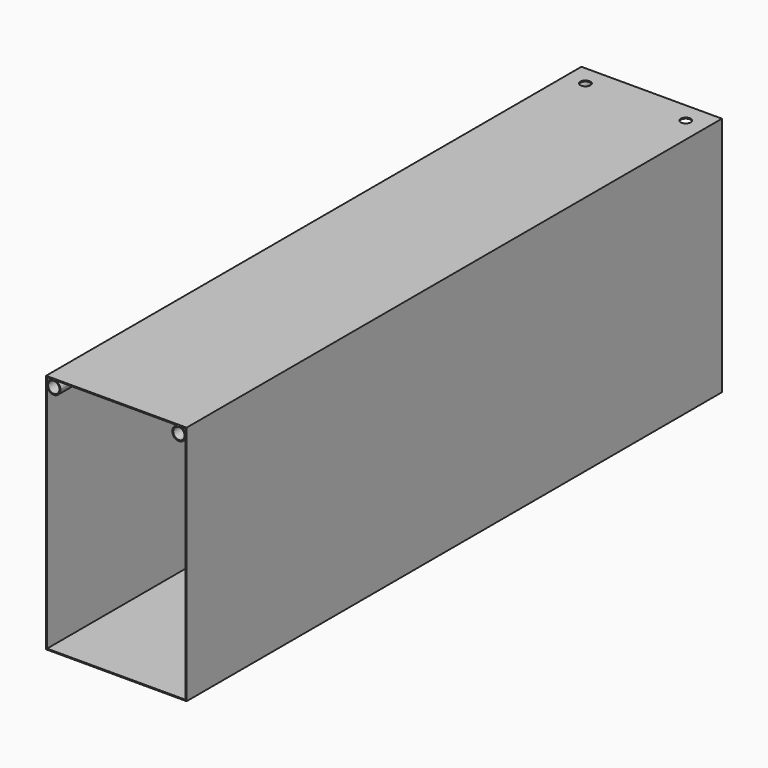
from build123d import *

# Parameters (mm, degrees)
F0_W     = 210
F0_H     = 360
F1_DEPTH = 1000
F0_R     = 8.5
F3_D     = 15


with BuildPart() as f1:
    # F0 (on Front) → F1 (new body)
    with BuildSketch(Plane.XZ):
        with Locations((105, 180)):
            Rectangle(F0_W, F0_H)
        Polygon((1.5, 348.5), (1.5, 358.5), (11.5, 358.5), (198.5, 358.5), (208.5, 358.5), (208.5, 348.5), (208.5, 1.5), (1.5, 1.5), align=None, mode=Mode.SUBTRACT)
    extrude(amount=F1_DEPTH)

    # F3 (through all)
    with Locations(Plane.XY.offset(360)):
        with Locations((180, -30), (30, -30)):
            Hole(F3_D / 2)


with BuildPart() as f1b:
    # F0 (on Front) → F1, piece 2 (new body)
    with BuildSketch(Plane.XZ):
        with BuildLine():
            ThreePointArc((208.5, 348.5), (205.5710678119, 355.5710678119), (198.5, 358.5))
            ThreePointArc((198.5, 358.5), (191.4289321881, 341.4289321881), (208.5, 348.5))
        make_face()
        with Locations((198.5, 348.5)):
            Circle(F0_R, mode=Mode.SUBTRACT)
    extrude(amount=F1_DEPTH)


with BuildPart() as f1c:
    # F0 (on Front) → F1, piece 3 (new body)
    with BuildSketch(Plane.XZ):
        with BuildLine():
            ThreePointArc((21.5, 348.5), (18.5710678119, 355.5710678119), (11.5, 358.5))
            ThreePointArc((11.5, 358.5), (4.4289321881, 355.5710678119), (1.5, 348.5))
            ThreePointArc((1.5, 348.5), (11.5, 338.5), (21.5, 348.5))
        make_face()
        with Locations((11.5, 348.5)):
            Circle(F0_R, mode=Mode.SUBTRACT)
    extrude(amount=F1_DEPTH)


solid = Compound([f1.part, f1b.part, f1c.part])
